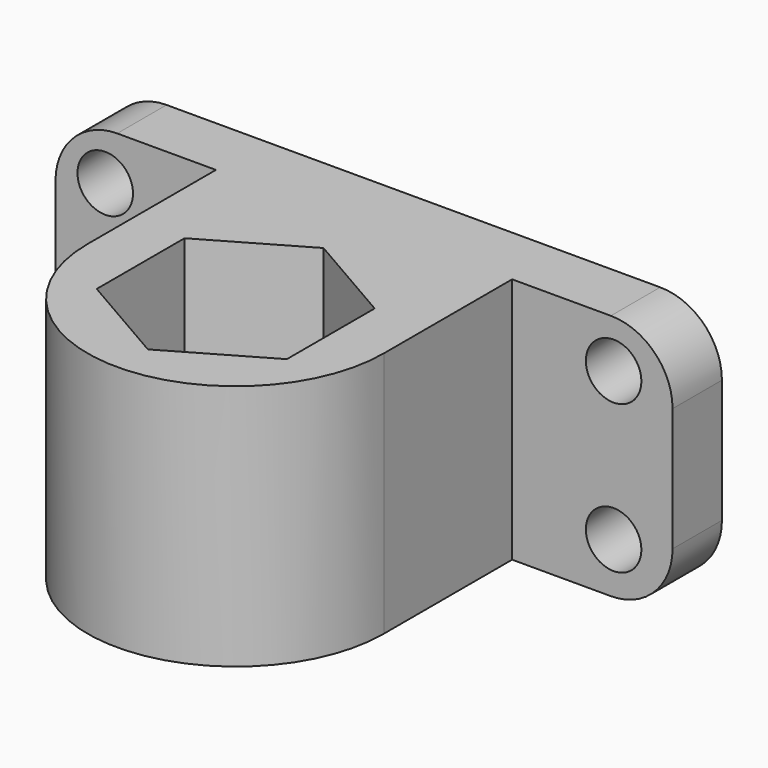
from build123d import *

# Parameters (mm, degrees)
F0_R      = 5
F1_DEPTH  = 20
F2_W      = 50
F2_H      = 5
F3_DEPTH  = 20
F4_R      = 2.25
F5_DEPTH  = 25
F6_R      = 5
F8_DEPTH  = 10
F10_DEPTH = 5


with BuildPart() as f1:
    # F0 (on Top) → F1 (new body)
    with BuildSketch(Plane.XY):
        with BuildLine():
            Line((12, 18), (-12, 18))
            Line((-12, 18), (-12, 0))
            ThreePointArc((-12, 0), (0, -12), (12, 0))
            Line((12, 0), (12, 18))
        make_face()
        Circle(F0_R, mode=Mode.SUBTRACT)
    extrude(amount=F1_DEPTH)

    # F2 (on face) → F3 (join, through all)
    with BuildSketch(Plane.XY.offset(20)):
        with Locations((0, 15.5)):
            Rectangle(F2_W, F2_H)
    extrude(amount=-F3_DEPTH)

    # F4 (on face) → F5 (cut)
    with BuildSketch(Plane.XZ.offset(-13)):
        with Locations((-20.970641, 16.129617)):
            Circle(F4_R)
        with Locations((20.224099, 16.129617)):
            Circle(F4_R)
        with Locations((-20.970641, 4.11036)):
            Circle(F4_R)
        with Locations((20.224099, 4.11036)):
            Circle(F4_R)
    extrude(amount=-F5_DEPTH, mode=Mode.SUBTRACT)

    # F6
    f6_edges = [f1.edges().sort_by_distance(p)[0] for p in [
        (25, 15.5, 0),
        (-25, 15.5, 0),
        (-25, 15.5, 20),
        (25, 15.5, 20),
    ]]
    fillet(f6_edges, radius=F6_R)

    # F7 (on face) → F8 (cut)
    with BuildSketch(Plane.XY.offset(20)):
        Polygon((7.702981, 4.447318), (0, 8.894636), (-7.702981, 4.447318), (-7.702981, -4.447318), (0, -8.894636), (7.702981, -4.447318), align=None)
    extrude(amount=-F8_DEPTH, mode=Mode.SUBTRACT)

    # F9 (on face) → F10 (cut)
    with BuildSketch(Plane(origin=(0, 0, 0), x_dir=(1, 0, 0), z_dir=(0, 0, -1))):
        Polygon((-0.291229, 8.527634), (-7.530763, 4.011605), (-7.239533, -4.516029), (0.291229, -8.527634), (7.530763, -4.011605), (7.239533, 4.516029), align=None)
    extrude(amount=-F10_DEPTH, mode=Mode.SUBTRACT)


solid = f1.part
